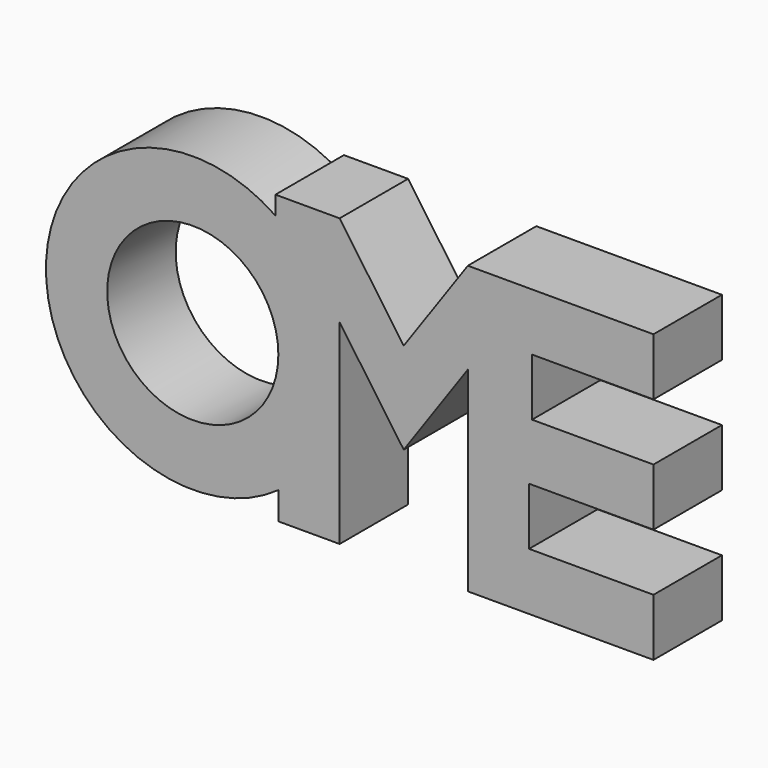
from build123d import *

# Parameters (mm, degrees)
F0_R     = 25.4
F1_DEPTH = 25.4


with BuildPart() as f1:
    # F0 (on Front) → F1 (new body)
    with BuildSketch(Plane.XZ):
        with BuildLine():
            Line((24.531372, 41.508628), (24.531372, 36.021491))
            ThreePointArc((24.531372, 36.021491), (-43.578151, -0.529891), (25.4, -35.414348))
            Line((25.4, -35.414348), (25.4, -43.581372))
            Line((25.4, -43.581372), (43.586588, -43.581372))
            Line((43.586588, -43.581372), (43.581372, 14.362718))
            Line((43.581372, 14.362718), (62.605462, -12.74627))
            Line((62.605462, -12.74627), (81.629552, 14.362718))
            Line((81.629552, 14.362718), (81.624336, -43.581372))
            Line((81.624336, -43.581372), (136.724123, -43.581372))
            Line((136.724123, -43.581372), (136.724123, -26.563372))
            Line((136.724123, -26.563372), (99.810924, -26.563372))
            Line((99.810924, -26.563372), (99.810924, -9.545372))
            Line((99.810924, -9.545372), (136.724123, -9.545372))
            Line((136.724123, -9.545372), (136.724123, 7.472628))
            Line((136.724123, 7.472628), (100.679552, 7.472628))
            Line((100.679552, 7.472628), (100.679552, 24.490628))
            Line((100.679552, 24.490628), (136.724123, 24.490628))
            Line((136.724123, 24.490628), (136.724123, 41.508628))
            Line((136.724123, 41.508628), (81.629552, 41.508628))
            Line((81.629552, 41.508628), (62.605462, 14.39964))
            Line((62.605462, 14.39964), (43.581372, 41.508628))
            Line((43.581372, 41.508628), (24.531372, 41.508628))
        make_face()
        Circle(F0_R, mode=Mode.SUBTRACT)
    extrude(amount=F1_DEPTH)


solid = f1.part
